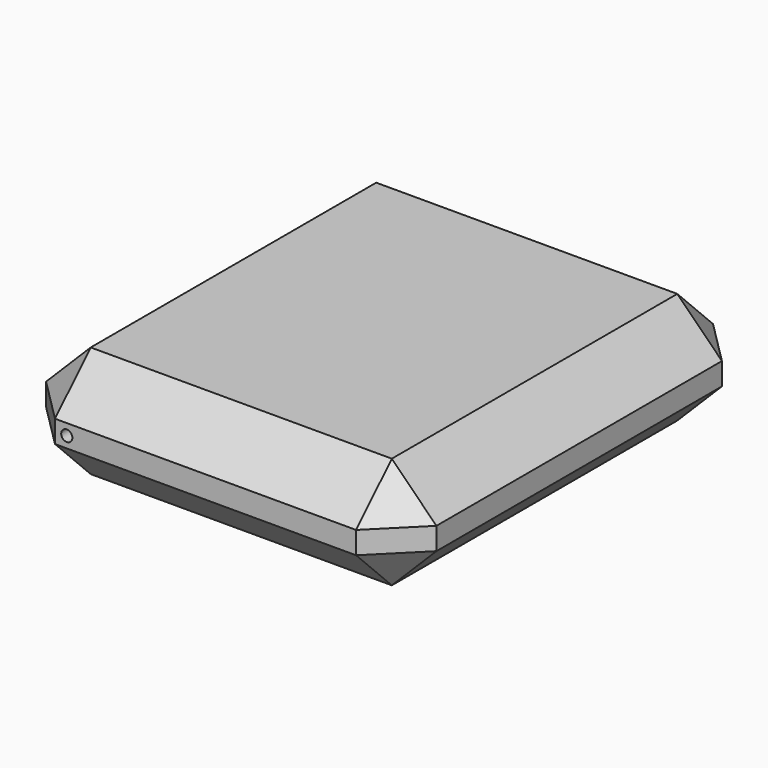
from build123d import *

# Parameters (mm, degrees)
F0_W     = 44.45
F0_H     = 50.8
F1_DEPTH = 12.7
F2_SIZE  = 5.08
F4_D     = 1.27


with BuildPart() as f1:
    # F0 (on Top) → F1 (new body)
    with BuildSketch(Plane.XY):
        with Locations((-22.886127, -14.839125)):
            Rectangle(F0_W, F0_H)
    extrude(amount=F1_DEPTH)

    # F2
    f2_edges = [f1.edges().sort_by_distance(p)[0] for p in [
        (-45.111127, -14.839125, 12.7),
        (-22.886127, -40.239125, 12.7),
        (-0.661127, -14.839125, 12.7),
        (-22.886127, 10.560875, 12.7),
        (-45.111127, -14.839125, 0),
        (-22.886127, -40.239125, 0),
        (-0.661127, -14.839125, 0),
        (-0.661127, 10.560875, 6.35),
        (-45.111127, 10.560875, 6.35),
        (-22.886127, 10.560875, 0),
        (-0.661127, -40.239125, 6.35),
        (-45.111127, -40.239125, 6.35),
    ]]
    chamfer(f2_edges, length=F2_SIZE)

    # F4 (through all)
    with Locations(Plane.XZ.offset(40.239125)):
        with Locations((-38.692214, 6.35)):
            Hole(F4_D / 2)


solid = f1.part
